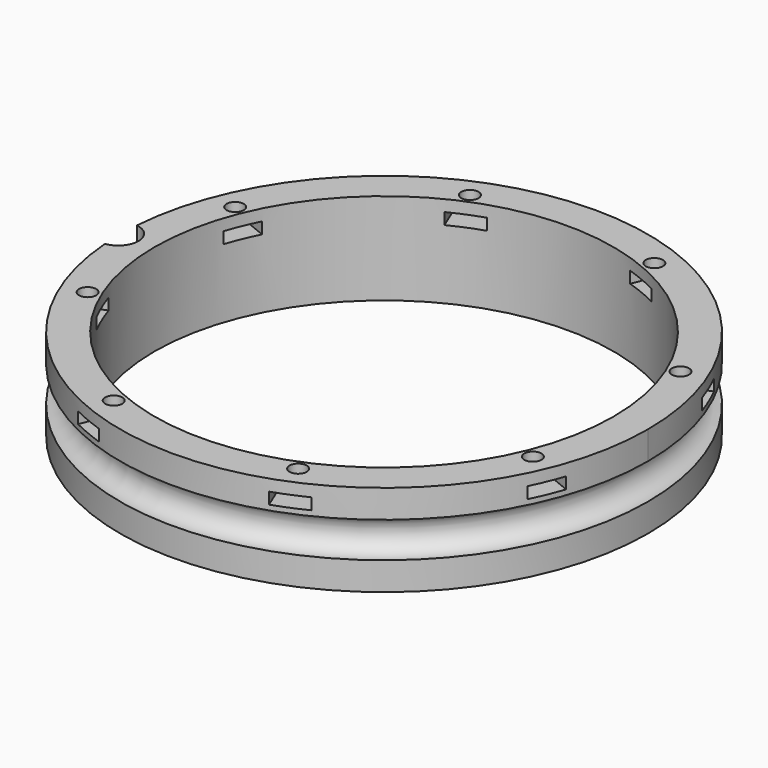
from build123d import *

# Parameters (mm, degrees)
BOX391_W                     = 6
BOX391_H                     = 8
BOX391_DEPTH                 = 2
BOX391_PLACEMENT_ANGLE       = 45
BOX392_W                     = 6
BOX392_H                     = 8
BOX392_DEPTH                 = 2
BOX387_W                     = 6
BOX387_H                     = 8
BOX387_DEPTH                 = 2
BOX393_W                     = 6
BOX393_H                     = 8
BOX393_DEPTH                 = 2
BOX393_PLACEMENT_ANGLE       = 135
BOX384_W                     = 6
BOX384_H                     = 8
BOX384_DEPTH                 = 2
BOX388_W                     = 6
BOX388_H                     = 8
BOX388_DEPTH                 = 2
BOX388_PLACEMENT_ANGLE       = 225
BOX389_W                     = 6
BOX389_H                     = 8
BOX389_DEPTH                 = 2
BOX372_W                     = 6
BOX372_H                     = 8
BOX372_DEPTH                 = 2
BOX372_PLACEMENT_ANGLE       = 45
COMPOUND822_PLACEMENT_ANGLE  = 22.5
CYLINDER1023_R               = 1.5
CYLINDER1023_DEPTH           = 12
CYLINDER1023_PLACEMENT_ANGLE = 45
CYLINDER1022_R               = 1.5
CYLINDER1022_DEPTH           = 12
CYLINDER1019_R               = 1.5
CYLINDER1019_DEPTH           = 12
CYLINDER1019_PLACEMENT_ANGLE = 135
CYLINDER1018_R               = 1.5
CYLINDER1018_DEPTH           = 12
CYLINDER1014_R               = 1.5
CYLINDER1014_DEPTH           = 12
CYLINDER1014_PLACEMENT_ANGLE = 225
CYLINDER1021_R               = 1.5
CYLINDER1021_DEPTH           = 12
CYLINDER1009_R               = 1.5
CYLINDER1009_DEPTH           = 12
CYLINDER1009_PLACEMENT_ANGLE = 45
CYLINDER1008_R               = 1.5
CYLINDER1008_DEPTH           = 12
COMPOUND825_PLACEMENT_ANGLE  = 22.5
CYLINDER1006_R               = 3.5
CYLINDER1006_DEPTH           = 20
TORUS007_R                   = 3.1
TUBE085_R                    = 46
TUBE085_R_2                  = 40
TUBE085_DEPTH                = 16


with BuildPart() as krychle391:
    # Box391 → Box391 (new body)
    with BuildSketch(Plane.XY):
        with Locations((3, 4)):
            Rectangle(BOX391_W, BOX391_H)
    extrude(amount=BOX391_DEPTH)


with BuildPart() as krychle391_1:
    # Box391 placement: moved
    add(krychle391.part.moved(Location((30.405592, -34.648232, 33))).rotate(Axis((30.405592, -34.648232, 33), (0, 0, 1)), BOX391_PLACEMENT_ANGLE))


with BuildPart() as krychle392:
    # Box392 → Box392 (new body)
    with BuildSketch(Plane(origin=(46, -3, 33), x_dir=(0, 1, 0), z_dir=(0, 0, 1))):
        with Locations((3, 4)):
            Rectangle(BOX392_W, BOX392_H)
    extrude(amount=BOX392_DEPTH)


with BuildPart() as krychle387:
    # Box387 → Box387 (new body)
    with BuildSketch(Plane(origin=(-3, -46, 33), x_dir=(1, 0, 0), z_dir=(0, 0, 1))):
        with Locations((3, 4)):
            Rectangle(BOX387_W, BOX387_H)
    extrude(amount=BOX387_DEPTH)


with BuildPart() as krychle393:
    # Box393 → Box393 (new body)
    with BuildSketch(Plane.XY):
        with Locations((3, 4)):
            Rectangle(BOX393_W, BOX393_H)
    extrude(amount=BOX393_DEPTH)


with BuildPart() as krychle393_1:
    # Box393 placement: moved
    add(krychle393.part.moved(Location((34.648232, 30.405592, 33))).rotate(Axis((34.648232, 30.405592, 33), (0, 0, 1)), BOX393_PLACEMENT_ANGLE))


with BuildPart() as krychle384:
    # Box384 → Box384 (new body)
    with BuildSketch(Plane(origin=(3, 46, 33), x_dir=(-1, 0, 0), z_dir=(0, 0, 1))):
        with Locations((3, 4)):
            Rectangle(BOX384_W, BOX384_H)
    extrude(amount=BOX384_DEPTH)


with BuildPart() as krychle388:
    # Box388 → Box388 (new body)
    with BuildSketch(Plane.XY):
        with Locations((3, 4)):
            Rectangle(BOX388_W, BOX388_H)
    extrude(amount=BOX388_DEPTH)


with BuildPart() as krychle388_1:
    # Box388 placement: moved
    add(krychle388.part.moved(Location((-30.405592, 34.648232, 33))).rotate(Axis((-30.405592, 34.648232, 33), (0, 0, 1)), BOX388_PLACEMENT_ANGLE))


with BuildPart() as krychle389:
    # Box389 → Box389 (new body)
    with BuildSketch(Plane(origin=(-46, 3, 33), x_dir=(0, -1, 0), z_dir=(0, 0, 1))):
        with Locations((3, 4)):
            Rectangle(BOX389_W, BOX389_H)
    extrude(amount=BOX389_DEPTH)


with BuildPart() as compound822:
    # Box372 → Box372 (new body)
    with BuildSketch(Plane.XY):
        with Locations((3, 4)):
            Rectangle(BOX372_W, BOX372_H)
    extrude(amount=BOX372_DEPTH)


with BuildPart() as compound822_1:
    # Box372 placement: moved
    add(compound822.part.moved(Location((-34.648232, -30.405592, 33))).rotate(Axis((-34.648232, -30.405592, 33), (0, 0, -1)), BOX372_PLACEMENT_ANGLE))

    # Compound822: union Krychle391, Krychle392, Krychle387, Krychle393, Krychle384, Krychle388, Krychle389
    add(krychle391_1.part)
    add(krychle392.part)
    add(krychle387.part)
    add(krychle393_1.part)
    add(krychle384.part)
    add(krychle388_1.part)
    add(krychle389.part)


with BuildPart() as compound822_2:
    # Compound822 placement: moved
    add(compound822_1.part.rotate(Axis((0, 0, 0), (0, 0, 1)), COMPOUND822_PLACEMENT_ANGLE))


with BuildPart() as obj1:
    # Cylinder1023 → Cylinder1023 (new body)
    with BuildSketch(Plane.XY):
        Circle(CYLINDER1023_R)
    extrude(amount=CYLINDER1023_DEPTH)


with BuildPart() as obj1_1:
    # Cylinder1023 placement: moved
    add(obj1.part.moved(Location((29.698485, -29.698485, 33.5))).rotate(Axis((29.698485, -29.698485, 33.5), (0, 0, 1)), CYLINDER1023_PLACEMENT_ANGLE))


with BuildPart() as obj2:
    # Cylinder1022 → Cylinder1022 (new body)
    with BuildSketch(Plane(origin=(42, 0, 33.5), x_dir=(0, 1, 0), z_dir=(0, 0, 1))):
        Circle(CYLINDER1022_R)
    extrude(amount=CYLINDER1022_DEPTH)


with BuildPart() as obj3:
    # Cylinder1019 → Cylinder1019 (new body)
    with BuildSketch(Plane.XY):
        Circle(CYLINDER1019_R)
    extrude(amount=CYLINDER1019_DEPTH)


with BuildPart() as obj3_1:
    # Cylinder1019 placement: moved
    add(obj3.part.moved(Location((29.698485, 29.698485, 33.5))).rotate(Axis((29.698485, 29.698485, 33.5), (0, 0, 1)), CYLINDER1019_PLACEMENT_ANGLE))


with BuildPart() as obj4:
    # Cylinder1018 → Cylinder1018 (new body)
    with BuildSketch(Plane(origin=(0, 42, 33.5), x_dir=(-1, 0, 0), z_dir=(0, 0, 1))):
        Circle(CYLINDER1018_R)
    extrude(amount=CYLINDER1018_DEPTH)


with BuildPart() as obj5:
    # Cylinder1014 → Cylinder1014 (new body)
    with BuildSketch(Plane.XY):
        Circle(CYLINDER1014_R)
    extrude(amount=CYLINDER1014_DEPTH)


with BuildPart() as obj5_1:
    # Cylinder1014 placement: moved
    add(obj5.part.moved(Location((-29.698485, 29.698485, 33.5))).rotate(Axis((-29.698485, 29.698485, 33.5), (0, 0, 1)), CYLINDER1014_PLACEMENT_ANGLE))


with BuildPart() as obj6:
    # Cylinder1021 → Cylinder1021 (new body)
    with BuildSketch(Plane(origin=(-42, 0, 33.5), x_dir=(0, -1, 0), z_dir=(0, 0, 1))):
        Circle(CYLINDER1021_R)
    extrude(amount=CYLINDER1021_DEPTH)


with BuildPart() as obj7:
    # Cylinder1009 → Cylinder1009 (new body)
    with BuildSketch(Plane.XY):
        Circle(CYLINDER1009_R)
    extrude(amount=CYLINDER1009_DEPTH)


with BuildPart() as obj7_1:
    # Cylinder1009 placement: moved
    add(obj7.part.moved(Location((-29.698485, -29.698485, 33.5))).rotate(Axis((-29.698485, -29.698485, 33.5), (0, 0, -1)), CYLINDER1009_PLACEMENT_ANGLE))


with BuildPart() as compound825:
    # Cylinder1008 → Cylinder1008 (new body)
    with BuildSketch(Plane(origin=(0, -42, 33.5), x_dir=(1, 0, 0), z_dir=(0, 0, 1))):
        Circle(CYLINDER1008_R)
    extrude(amount=CYLINDER1008_DEPTH)

    # Compound825: union obj1, obj2, obj3, obj4, obj5, obj6, obj7
    add(obj1_1.part)
    add(obj2.part)
    add(obj3_1.part)
    add(obj4.part)
    add(obj5_1.part)
    add(obj6.part)
    add(obj7_1.part)


with BuildPart() as compound825_1:
    # Compound825 placement: moved
    add(compound825.part.rotate(Axis((0, 0, 0), (0, 0, 1)), COMPOUND825_PLACEMENT_ANGLE))


with BuildPart() as obj8:
    # Cylinder1006 → Cylinder1006 (new body)
    with BuildSketch(Plane(origin=(-46.3, 0, 29), x_dir=(1, 0, 0), z_dir=(0, 0, 1))):
        Circle(CYLINDER1006_R)
    extrude(amount=CYLINDER1006_DEPTH)


with BuildPart() as obj9:
    # Torus007 → Torus007 (revolve)
    with BuildSketch(Plane(origin=(0, 0, 29), x_dir=(1, 0, 0), z_dir=(0, -1, 0))):
        with Locations((46, 0)):
            Circle(TORUS007_R)
    revolve(axis=Axis((0, 0, 29), (0, 0, 1)))


with BuildPart() as cut365:
    # Tube085 → Tube085 (new body)
    with BuildSketch(Plane.XY.offset(21)):
        Circle(TUBE085_R)
        Circle(TUBE085_R_2, mode=Mode.SUBTRACT)
    extrude(amount=TUBE085_DEPTH)

    # Cut371: cut obj9
    add(obj9.part, mode=Mode.SUBTRACT)

    # Cut362: cut obj8
    add(obj8.part, mode=Mode.SUBTRACT)

    # Cut369: cut Compound825
    add(compound825_1.part, mode=Mode.SUBTRACT)

    # Cut365: cut Compound822
    add(compound822_2.part, mode=Mode.SUBTRACT)


solid = cut365.part
